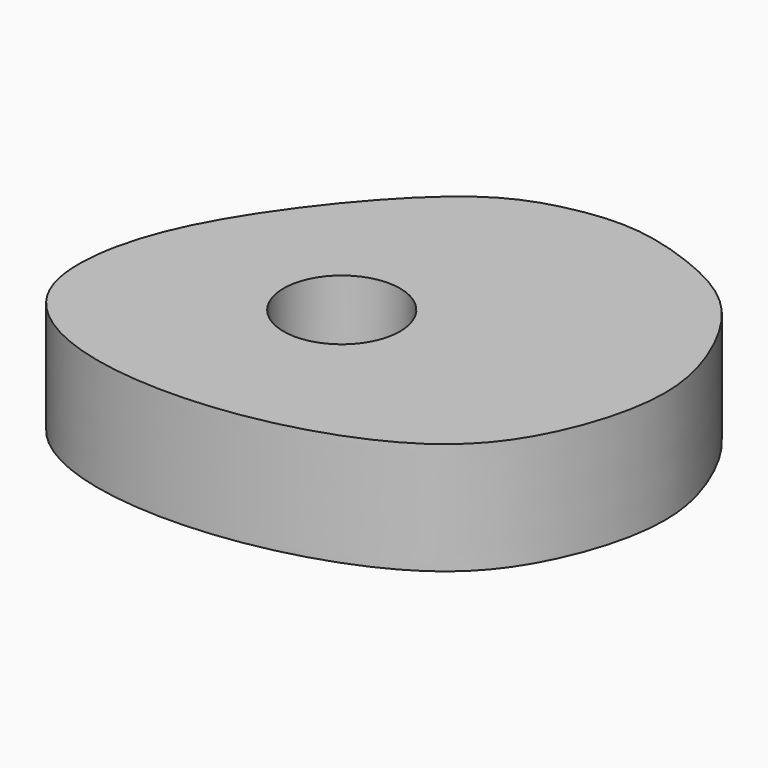
from build123d import *

# Parameters (mm, degrees)
F0_R     = 3.302
F1_DEPTH = 6.35


with BuildPart() as f1:
    # F0 (on Top) → F1 (new body)
    with BuildSketch(Plane.XY):
        with BuildLine():
            add(Edge.make_bspline(
                [(-11.5660938129, -1.4733877635), (-11.1062704307, 0.6559187017), (-9.0097533948, 5.1324601788), (-2.7295376658, 12.4892291958), (1.5483651948, 13.9523977858), (5.124833313, 14.3663932302), (8.8453467505, 13.3715376496), (12.9350845742, 11.3935026317), (15.4888356173, 6.9576168257), (16.5792158925, 2.3552663623), (14.9301892557, -3.5129813916), (11.3163198137, -8.3294822972), (2.2088228014, -11.4203751261), (-7.1498018606, -10.8084677232), (-11.9968241476, -7.0196786696), (-11.9577101631, -3.2868475799), (-11.5660938129, -1.4733877635)],
                knots=[0, 0, 0, 0, 0.0794175326, 0.1711216146, 0.2332159203, 0.2881042373, 0.3460269066, 0.4086132178, 0.4745204552, 0.5387111359, 0.6103188841, 0.6817053067, 0.7727847507, 0.8635982088, 0.9323627169, 1, 1, 1, 1], degree=3))
        make_face()
        Circle(F0_R, mode=Mode.SUBTRACT)
    extrude(amount=F1_DEPTH)


solid = f1.part
